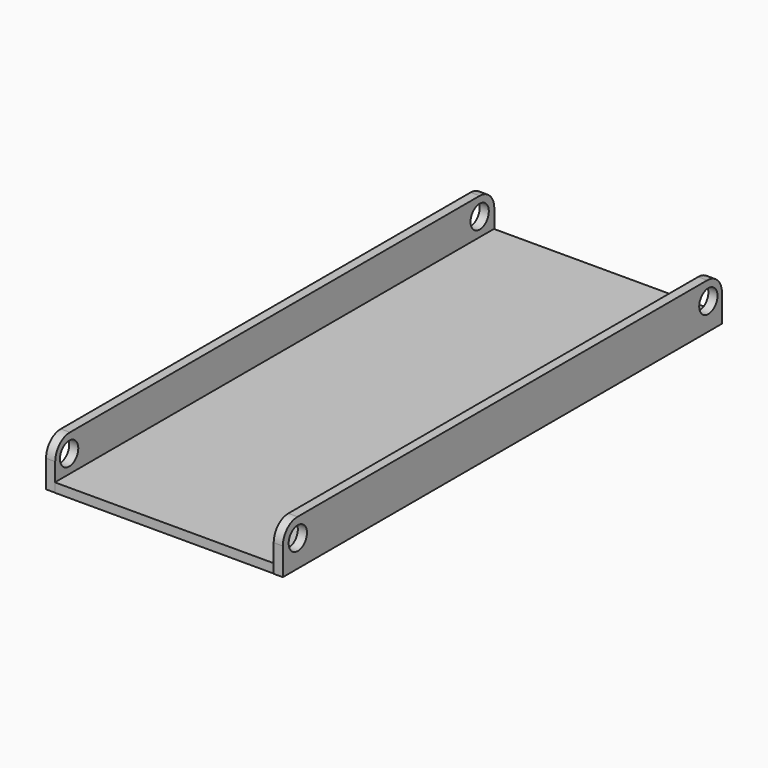
from build123d import *

# Parameters (mm, degrees)
F0_W     = 60.96
F0_H     = 152.4
F1_DEPTH = 2.54
F2_W     = 152.4
F2_H     = 12.7
F3_DEPTH = 2.54
F4_W     = 152.4
F4_H     = 12.7
F5_DEPTH = 2.54
F6_R     = 5.08
F7_R     = 3.175
F8_DEPTH = 90.17


with BuildPart() as f1:
    # F0 (on Top) → F1 (new body)
    with BuildSketch(Plane.XY):
        Rectangle(F0_W, F0_H)
    extrude(amount=F1_DEPTH)

    # F2 (on face) → F3 (join)
    with BuildSketch(Plane.YZ.offset(30.48)):
        with Locations((-0.243933, 6.454543)):
            Rectangle(F2_W, F2_H)
    extrude(amount=F3_DEPTH)

    # F4 (on face) → F5 (join)
    with BuildSketch(Plane(origin=(-30.48, 0, 0), x_dir=(0, -1, 0), z_dir=(-1, 0, 0))):
        with Locations((-0.127775, 6.291921)):
            Rectangle(F4_W, F4_H)
    extrude(amount=F5_DEPTH)

    # F6
    f6_edges = [f1.edges().sort_by_distance(p)[0] for p in [
        (31.75, -76.443933, 12.804543),
        (-31.75, -76.072225, 12.641921),
        (31.75, 75.956067, 12.804543),
        (-31.75, 76.327775, 12.641921),
    ]]
    fillet(f6_edges, radius=F6_R)

    # F7 (on face) → F8 (cut)
    with BuildSketch(Plane(origin=(-33.02, 0, 0), x_dir=(0, -1, 0), z_dir=(-1, 0, 0))):
        with Locations((-71.247775, 7.561921)):
            Circle(F7_R)
        with Locations((71.247775, 7.561921)):
            Circle(F7_R)
    extrude(amount=-F8_DEPTH, mode=Mode.SUBTRACT)


solid = f1.part
